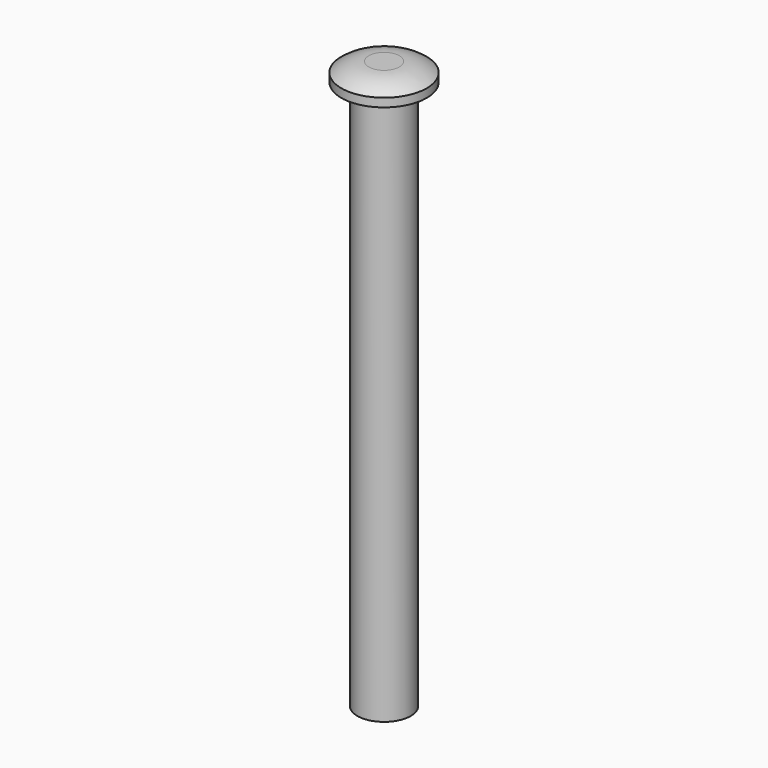
from build123d import *

# Parameters (mm, degrees)
F0_R     = 5.55625
F1_DEPTH = 57.15


with BuildPart() as f1:
    # F0 (on Top) → F1 (new body, symmetric)
    with BuildSketch(Plane.XY):
        Circle(F0_R)
    extrude(amount=F1_DEPTH, both=True)

    # F2 (on Front) → F3 (revolve)
    with BuildSketch(Plane.XZ):
        with BuildLine():
            Line((0, 57.15), (5.55625, 57.15))
            Line((5.55625, 57.15), (8.89, 57.15))
            Line((8.89, 57.15), (8.89, 58.928))
            ThreePointArc((8.89, 58.928), (6.207748, 60.436886), (3.175, 60.96))
            Line((3.175, 60.96), (0, 60.96))
            Line((0, 60.96), (0, 57.15))
        make_face()
    revolve(axis=Axis((0, 0, 66.039751), (0, 0, 1)))


solid = f1.part
